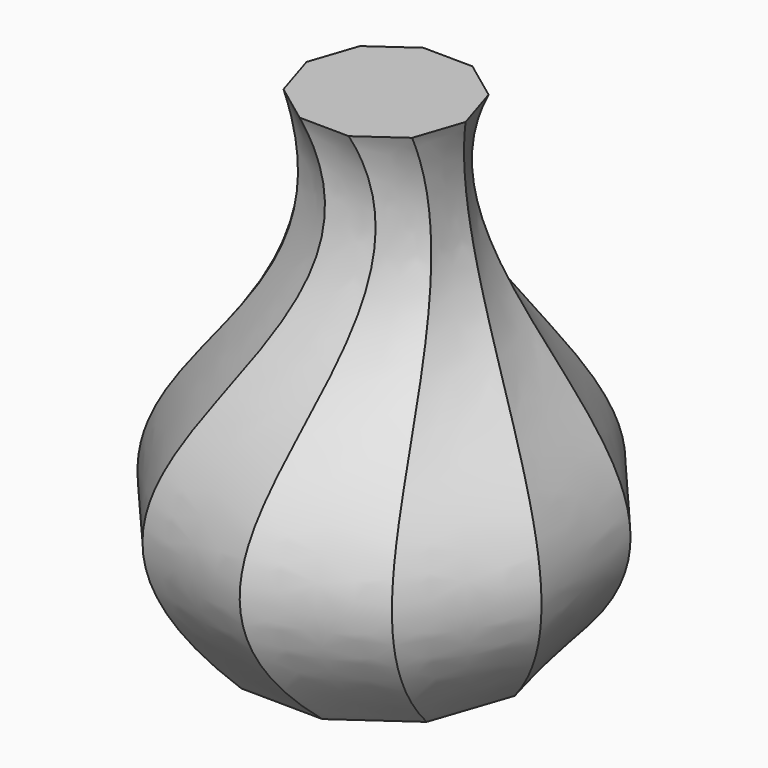
from build123d import *


with BuildPart() as part:
    # Sketch003 → AdditiveLoft section 0
    with BuildSketch(Plane.XY):
        Polygon((-8.628875, 6.430782), (-10.760825, 0.130686), (-8.782506, -6.219327), (-3.449568, -10.193769), (3.200988, -10.274537), (8.628875, -6.430782), (10.760825, -0.130686), (8.782506, 6.219327), (3.449568, 10.193769), (-3.200988, 10.274537), align=None)
    # Sketch001 → AdditiveLoft section 1
    with BuildSketch(Plane.XY.offset(15)):
        Polygon((13.882604, 6.057266), (7.670891, 13.060421), (-1.470842, 15.074939), (-10.050763, 11.331343), (-14.791634, 3.259559), (-13.882604, -6.057266), (-7.670891, -13.060421), (1.470842, -15.074939), (10.050763, -11.331343), (14.791634, -3.259559), align=None)
    # Sketch002 → AdditiveLoft section 2
    with BuildSketch(Plane.XY.offset(25)):
        Polygon((6.810332, 5.27146), (2.411188, 8.267713), (-2.908948, 8.105981), (-7.117965, 4.84804), (-8.608161, -0.261688), (-6.810332, -5.27146), (-2.411188, -8.267713), (2.908948, -8.105981), (7.117965, -4.84804), (8.608161, 0.261688), align=None)
    # Sketch → AdditiveLoft section 3
    with BuildSketch(Plane.XY.offset(40)):
        Polygon((5.749448, 3.469412), (2.50984, 5.876568), (-1.525949, 5.919804), (-4.816384, 3.582606), (-6.104631, -0.242296), (-4.898624, -4.09392), (-1.659017, -6.501076), (2.376772, -6.544312), (5.667207, -4.207114), (6.955455, -0.382212), align=None)
    loft()


solid = part.part
